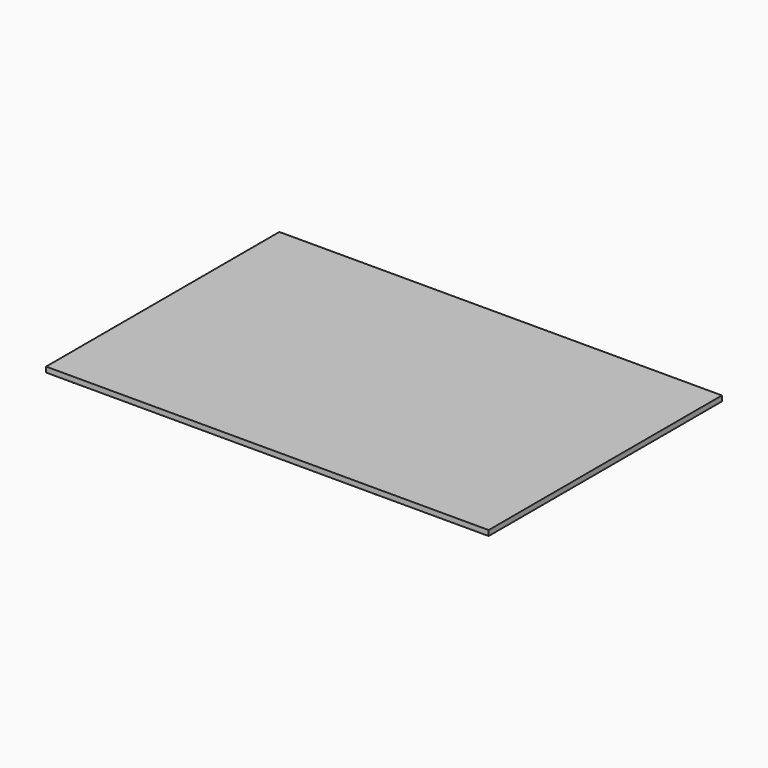
from build123d import *

# Parameters (mm, degrees)
F0_W     = 84.99799993
F0_H     = 55.998000018
F0_R     = 1.143
F1_DEPTH = 1.016
F2_R     = 1.143
F3_DEPTH = 2.54


with BuildPart() as f1:
    # F0 (on Top) → F1 (new body)
    with BuildSketch(Plane.XY):
        Rectangle(F0_W, F0_H)
        with Locations((-39.1119999572, -24.620800009)):
            Circle(F0_R, mode=Mode.SUBTRACT)
        with Locations((19.1579999618, -24.620800009)):
            Circle(F0_R, mode=Mode.SUBTRACT)
        Circle(F0_R, mode=Mode.SUBTRACT)
        with Locations((-39.120799965, 24.620800009)):
            Circle(F0_R, mode=Mode.SUBTRACT)
        with Locations((19.156399965, 24.620800009)):
            Circle(F0_R, mode=Mode.SUBTRACT)
        Circle(F0_R)
    extrude(amount=F1_DEPTH)

    # F2 (on face) → F3 (join)
    with BuildSketch(Plane.XY.offset(1.016)):
        with Locations((19.156399965, 24.620800009)):
            Circle(F2_R)
        with Locations((-39.120799965, 24.620800009)):
            Circle(F2_R)
        with Locations((19.1579999618, -24.620800009)):
            Circle(F2_R)
        with Locations((-39.1119999572, -24.620800009)):
            Circle(F2_R)
    extrude(amount=-F3_DEPTH)


solid = f1.part
